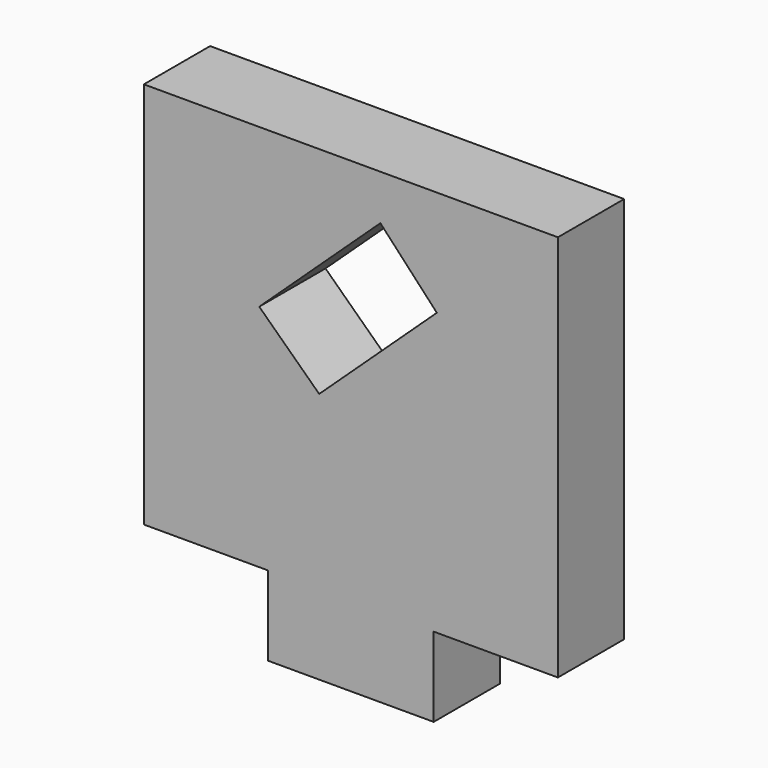
from build123d import *

# Parameters (mm, degrees)
F0_W     = 12.7
F0_H     = 6.096
F1_DEPTH = 6.35
F3_DEPTH = 25.4


with BuildPart() as f1:
    # F0 (on Front) → F1 (new body)
    with BuildSketch(Plane.XZ):
        Polygon((0, 29.718), (0, 0), (9.525, 0), (22.225, 0), (31.75, 0), (31.75, 29.718), align=None)
        with Locations((15.875, -3.048)):
            Rectangle(F0_W, F0_H)
    extrude(amount=F1_DEPTH)

    # F2 (on face) → F3 (cut)
    with BuildSketch(Plane.XZ.offset(6.35)):
        Polygon((22.467588, 21.601406), (18.136898, 26.245502), (8.848706, 17.584123), (13.445903, 13.188549), align=None)
    extrude(amount=-F3_DEPTH, mode=Mode.SUBTRACT)


solid = f1.part
